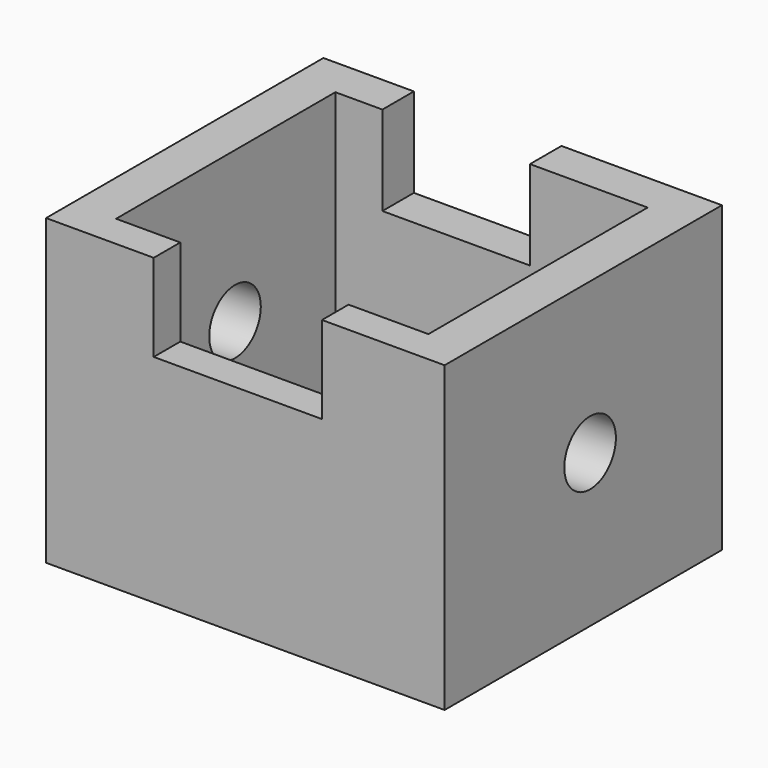
from build123d import *

# Parameters (mm, degrees)
F0_W     = 128.136318177
F0_H     = 112.1944747865
F0_R     = 11.9201465669
F1_DEPTH = 147.32
F2_W     = 115.4472436756
F2_H     = 101.3208404183
F3_DEPTH = 112.1954747865
F4_W     = 62.1966458857
F4_H     = 12.2760348022
F5_DEPTH = 32.258
F4_W_2   = 54.5518137515
F4_H_2   = 14.5394429564
F6_DEPTH = 33.02


with BuildPart() as f1:
    # F0 (on Right) → F1 (new body)
    with BuildSketch(Plane.YZ):
        with Locations((-3.1582880765, -0.3007892519)):
            Rectangle(F0_W, F0_H)
        Circle(F0_R, mode=Mode.SUBTRACT)
    extrude(amount=-F1_DEPTH)

    # F2 (on face) → F3 (cut, through all)
    with BuildSketch(Plane.XY.offset(55.7964481413)):
        with Locations((-73.5399918631, -4.2899921536)):
            Rectangle(F2_W, F2_H)
    extrude(amount=-F3_DEPTH, mode=Mode.SUBTRACT)

    # F4 (on face) → F5 (cut)
    with BuildSketch(Plane.XY.offset(55.7964481413)):
        with Locations((-76.4297451824, -61.0884297639)):
            Rectangle(F4_W, F4_H)
    extrude(amount=-F5_DEPTH, mode=Mode.SUBTRACT)

    # F4 (on face) → F6 (cut)
    with BuildSketch(Plane.XY.offset(55.7964481413)):
        with Locations((-86.5978654474, 53.6401495337)):
            Rectangle(F4_W_2, F4_H_2)
    extrude(amount=-F6_DEPTH, mode=Mode.SUBTRACT)


solid = f1.part
